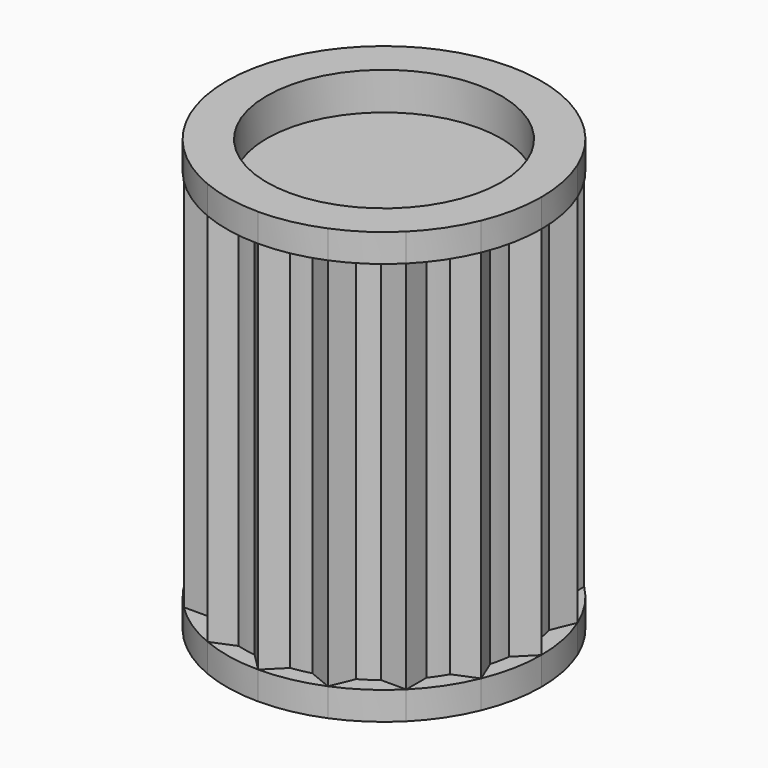
from build123d import *

# Parameters (mm, degrees)
F1_DEPTH = 40
F3_DEPTH = 3
F5_DEPTH = 3
F6_R     = 12.5
F7_DEPTH = 4


with BuildPart() as f1:
    # F0 (on Top) → F1 (new body)
    with BuildSketch(Plane.XY):
        with BuildLine():
            Line((-8.329602144, 11.86513605), (-9.1770663349, 11.86513605))
            ThreePointArc((-9.1770663349, 11.86513605), (-10.6066017178, 10.6066017178), (-11.86513605, 9.1770663349))
            Line((-11.86513605, 9.1770663349), (-11.86513605, 8.329602144))
            Line((-11.86513605, 8.329602144), (-10.097369097, 10.097369097))
            Line((-10.097369097, 10.097369097), (-8.329602144, 11.86513605))
        make_face()
        with BuildLine():
            Line((-3.1549579458, 14.1495570857), (-3.9379127663, 14.4738675911))
            ThreePointArc((-3.9379127663, 14.4738675911), (-5.7402514855, 13.8581929877), (-7.4500451029, 13.0190947444))
            Line((-7.4500451029, 13.0190947444), (-7.7743556083, 12.2361399239))
            Line((-7.7743556083, 12.2361399239), (-5.464656777, 13.1928485048))
            Line((-5.464656777, 13.1928485048), (-3.1549579458, 14.1495570857))
        make_face()
        with BuildLine():
            Line((2.5, 14.2798363213), (1.9007523238, 14.8790839975))
            ThreePointArc((1.9007523238, 14.8790839975), (0, 15), (-1.9007523238, 14.8790839975))
            Line((-1.9007523238, 14.8790839975), (-2.5, 14.2798363213))
            Line((-2.5, 14.2798363213), (0, 14.2798363213))
            Line((0, 14.2798363213), (2.5, 14.2798363213))
        make_face()
        with BuildLine():
            Line((7.7743556083, 12.2361399239), (7.4500451029, 13.0190947444))
            ThreePointArc((7.4500451029, 13.0190947444), (5.7402514855, 13.8581929877), (3.9379127663, 14.4738675911))
            Line((3.9379127663, 14.4738675911), (3.1549579458, 14.1495570857))
            Line((3.1549579458, 14.1495570857), (5.464656777, 13.1928485048))
            Line((5.464656777, 13.1928485048), (7.7743556083, 12.2361399239))
        make_face()
        with BuildLine():
            Line((11.86513605, 8.329602144), (11.86513605, 9.1770663349))
            ThreePointArc((11.86513605, 9.1770663349), (10.6066017178, 10.6066017178), (9.1770663349, 11.86513605))
            Line((9.1770663349, 11.86513605), (8.329602144, 11.86513605))
            Line((8.329602144, 11.86513605), (10.097369097, 10.097369097))
            Line((10.097369097, 10.097369097), (11.86513605, 8.329602144))
        make_face()
        with BuildLine():
            ThreePointArc((14.8790839975, -1.9007523238), (14.9697404781, -0.9522972325), (15, 0))
            ThreePointArc((15, 0), (14.9697404781, 0.9522972325), (14.8790839975, 1.9007523238))
            Line((14.8790839975, 1.9007523238), (14.2798363213, 2.5))
            Line((14.2798363213, 2.5), (14.2798363213, 0))
            Line((14.2798363213, 0), (14.2798363213, -2.5))
            Line((14.2798363213, -2.5), (14.8790839975, -1.9007523238))
        make_face()
        with BuildLine():
            ThreePointArc((13.0190947444, -7.4500451029), (13.8581929877, -5.7402514855), (14.4738675911, -3.9379127663))
            Line((14.4738675911, -3.9379127663), (14.1495570857, -3.1549579458))
            Line((14.1495570857, -3.1549579458), (13.1928485048, -5.464656777))
            Line((13.1928485048, -5.464656777), (12.2361399239, -7.7743556083))
            Line((12.2361399239, -7.7743556083), (13.0190947444, -7.4500451029))
        make_face()
        with BuildLine():
            ThreePointArc((9.1770663349, -11.86513605), (10.6066017178, -10.6066017178), (11.86513605, -9.1770663349))
            Line((11.86513605, -9.1770663349), (11.86513605, -8.329602144))
            Line((11.86513605, -8.329602144), (10.097369097, -10.097369097))
            Line((10.097369097, -10.097369097), (8.329602144, -11.86513605))
            Line((8.329602144, -11.86513605), (9.1770663349, -11.86513605))
        make_face()
        with BuildLine():
            ThreePointArc((3.9379127663, -14.4738675911), (5.7402514855, -13.8581929877), (7.4500451029, -13.0190947444))
            Line((7.4500451029, -13.0190947444), (7.7743556083, -12.2361399239))
            Line((7.7743556083, -12.2361399239), (5.464656777, -13.1928485048))
            Line((5.464656777, -13.1928485048), (3.1549579458, -14.1495570857))
            Line((3.1549579458, -14.1495570857), (3.9379127663, -14.4738675911))
        make_face()
        with BuildLine():
            ThreePointArc((-1.9007523238, -14.8790839975), (0, -15), (1.9007523238, -14.8790839975))
            Line((1.9007523238, -14.8790839975), (2.5, -14.2798363213))
            Line((2.5, -14.2798363213), (0, -14.2798363213))
            Line((0, -14.2798363213), (-2.5, -14.2798363213))
            Line((-2.5, -14.2798363213), (-1.9007523238, -14.8790839975))
        make_face()
        with BuildLine():
            ThreePointArc((-7.4500451029, -13.0190947444), (-5.7402514855, -13.8581929877), (-3.9379127663, -14.4738675911))
            Line((-3.9379127663, -14.4738675911), (-3.1549579458, -14.1495570857))
            Line((-3.1549579458, -14.1495570857), (-5.464656777, -13.1928485048))
            Line((-5.464656777, -13.1928485048), (-7.7743556083, -12.2361399239))
            Line((-7.7743556083, -12.2361399239), (-7.4500451029, -13.0190947444))
        make_face()
        with BuildLine():
            ThreePointArc((-11.86513605, -9.1770663349), (-10.6066017178, -10.6066017178), (-9.1770663349, -11.86513605))
            Line((-9.1770663349, -11.86513605), (-8.329602144, -11.86513605))
            Line((-8.329602144, -11.86513605), (-10.097369097, -10.097369097))
            Line((-10.097369097, -10.097369097), (-11.86513605, -8.329602144))
            Line((-11.86513605, -8.329602144), (-11.86513605, -9.1770663349))
        make_face()
        with BuildLine():
            ThreePointArc((-14.4738675911, -3.9379127663), (-13.8581929877, -5.7402514855), (-13.0190947444, -7.4500451029))
            Line((-13.0190947444, -7.4500451029), (-12.2361399239, -7.7743556083))
            Line((-12.2361399239, -7.7743556083), (-13.1928485048, -5.464656777))
            Line((-13.1928485048, -5.464656777), (-14.1495570857, -3.1549579458))
            Line((-14.1495570857, -3.1549579458), (-14.4738675911, -3.9379127663))
        make_face()
        with BuildLine():
            Line((-14.2798363213, 2.5), (-14.8790839975, 1.9007523238))
            ThreePointArc((-14.8790839975, 1.9007523238), (-15, 0), (-14.8790839975, -1.9007523238))
            Line((-14.8790839975, -1.9007523238), (-14.2798363213, -2.5))
            Line((-14.2798363213, -2.5), (-14.2798363213, 0))
            Line((-14.2798363213, 0), (-14.2798363213, 2.5))
        make_face()
        with BuildLine():
            Line((-12.2361399239, 7.7743556083), (-13.0190947444, 7.4500451029))
            ThreePointArc((-13.0190947444, 7.4500451029), (-13.8581929877, 5.7402514855), (-14.4738675911, 3.9379127663))
            Line((-14.4738675911, 3.9379127663), (-14.1495570857, 3.1549579458))
            Line((-14.1495570857, 3.1549579458), (-13.1928485048, 5.464656777))
            Line((-13.1928485048, 5.464656777), (-12.2361399239, 7.7743556083))
        make_face()
        with BuildLine():
            Line((14.2798363213, 2.5), (14.8790839975, 1.9007523238))
            ThreePointArc((14.8790839975, 1.9007523238), (14.711779206, 2.9263548302), (14.4738675911, 3.9379127663))
            Line((14.4738675911, 3.9379127663), (14.1495570857, 3.1549579458))
            Line((14.1495570857, 3.1549579458), (13.1928485048, 5.464656777))
            Line((13.1928485048, 5.464656777), (12.2361399239, 7.7743556083))
            Line((12.2361399239, 7.7743556083), (13.0190947444, 7.4500451029))
            ThreePointArc((13.0190947444, 7.4500451029), (12.4720441845, 8.3335534953), (11.86513605, 9.1770663349))
            Line((11.86513605, 9.1770663349), (11.86513605, 8.329602144))
            Line((11.86513605, 8.329602144), (10.097369097, 10.097369097))
            Line((10.097369097, 10.097369097), (8.329602144, 11.86513605))
            Line((8.329602144, 11.86513605), (9.1770663349, 11.86513605))
            ThreePointArc((9.1770663349, 11.86513605), (8.3335534953, 12.4720441845), (7.4500451029, 13.0190947444))
            Line((7.4500451029, 13.0190947444), (7.7743556083, 12.2361399239))
            Line((7.7743556083, 12.2361399239), (5.464656777, 13.1928485048))
            Line((5.464656777, 13.1928485048), (3.1549579458, 14.1495570857))
            Line((3.1549579458, 14.1495570857), (3.9379127663, 14.4738675911))
            ThreePointArc((3.9379127663, 14.4738675911), (2.9263548302, 14.711779206), (1.9007523238, 14.8790839975))
            Line((1.9007523238, 14.8790839975), (2.5, 14.2798363213))
            Line((2.5, 14.2798363213), (0, 14.2798363213))
            Line((0, 14.2798363213), (-2.5, 14.2798363213))
            Line((-2.5, 14.2798363213), (-1.9007523238, 14.8790839975))
            ThreePointArc((-1.9007523238, 14.8790839975), (-2.9263548302, 14.711779206), (-3.9379127663, 14.4738675911))
            Line((-3.9379127663, 14.4738675911), (-3.1549579458, 14.1495570857))
            Line((-3.1549579458, 14.1495570857), (-5.464656777, 13.1928485048))
            Line((-5.464656777, 13.1928485048), (-7.7743556083, 12.2361399239))
            Line((-7.7743556083, 12.2361399239), (-7.4500451029, 13.0190947444))
            ThreePointArc((-7.4500451029, 13.0190947444), (-8.3335534953, 12.4720441845), (-9.1770663349, 11.86513605))
            Line((-9.1770663349, 11.86513605), (-8.329602144, 11.86513605))
            Line((-8.329602144, 11.86513605), (-10.097369097, 10.097369097))
            Line((-10.097369097, 10.097369097), (-11.86513605, 8.329602144))
            Line((-11.86513605, 8.329602144), (-11.86513605, 9.1770663349))
            ThreePointArc((-11.86513605, 9.1770663349), (-12.4720441845, 8.3335534953), (-13.0190947444, 7.4500451029))
            Line((-13.0190947444, 7.4500451029), (-12.2361399239, 7.7743556083))
            Line((-12.2361399239, 7.7743556083), (-13.1928485048, 5.464656777))
            Line((-13.1928485048, 5.464656777), (-14.1495570857, 3.1549579458))
            Line((-14.1495570857, 3.1549579458), (-14.4738675911, 3.9379127663))
            ThreePointArc((-14.4738675911, 3.9379127663), (-14.711779206, 2.9263548302), (-14.8790839975, 1.9007523238))
            Line((-14.8790839975, 1.9007523238), (-14.2798363213, 2.5))
            Line((-14.2798363213, 2.5), (-14.2798363213, 0))
            Line((-14.2798363213, 0), (-14.2798363213, -2.5))
            Line((-14.2798363213, -2.5), (-14.8790839975, -1.9007523238))
            ThreePointArc((-14.8790839975, -1.9007523238), (-14.711779206, -2.9263548302), (-14.4738675911, -3.9379127663))
            Line((-14.4738675911, -3.9379127663), (-14.1495570857, -3.1549579458))
            Line((-14.1495570857, -3.1549579458), (-13.1928485048, -5.464656777))
            Line((-13.1928485048, -5.464656777), (-12.2361399239, -7.7743556083))
            Line((-12.2361399239, -7.7743556083), (-13.0190947444, -7.4500451029))
            ThreePointArc((-13.0190947444, -7.4500451029), (-12.4720441845, -8.3335534953), (-11.86513605, -9.1770663349))
            Line((-11.86513605, -9.1770663349), (-11.86513605, -8.329602144))
            Line((-11.86513605, -8.329602144), (-10.097369097, -10.097369097))
            Line((-10.097369097, -10.097369097), (-8.329602144, -11.86513605))
            Line((-8.329602144, -11.86513605), (-9.1770663349, -11.86513605))
            ThreePointArc((-9.1770663349, -11.86513605), (-8.3335534953, -12.4720441845), (-7.4500451029, -13.0190947444))
            Line((-7.4500451029, -13.0190947444), (-7.7743556083, -12.2361399239))
            Line((-7.7743556083, -12.2361399239), (-5.464656777, -13.1928485048))
            Line((-5.464656777, -13.1928485048), (-3.1549579458, -14.1495570857))
            Line((-3.1549579458, -14.1495570857), (-3.9379127663, -14.4738675911))
            ThreePointArc((-3.9379127663, -14.4738675911), (-2.9263548302, -14.711779206), (-1.9007523238, -14.8790839975))
            Line((-1.9007523238, -14.8790839975), (-2.5, -14.2798363213))
            Line((-2.5, -14.2798363213), (0, -14.2798363213))
            Line((0, -14.2798363213), (2.5, -14.2798363213))
            Line((2.5, -14.2798363213), (1.9007523238, -14.8790839975))
            ThreePointArc((1.9007523238, -14.8790839975), (2.9263548302, -14.711779206), (3.9379127663, -14.4738675911))
            Line((3.9379127663, -14.4738675911), (3.1549579458, -14.1495570857))
            Line((3.1549579458, -14.1495570857), (5.464656777, -13.1928485048))
            Line((5.464656777, -13.1928485048), (7.7743556083, -12.2361399239))
            Line((7.7743556083, -12.2361399239), (7.4500451029, -13.0190947444))
            ThreePointArc((7.4500451029, -13.0190947444), (8.3335534953, -12.4720441845), (9.1770663349, -11.86513605))
            Line((9.1770663349, -11.86513605), (8.329602144, -11.86513605))
            Line((8.329602144, -11.86513605), (10.097369097, -10.097369097))
            Line((10.097369097, -10.097369097), (11.86513605, -8.329602144))
            Line((11.86513605, -8.329602144), (11.86513605, -9.1770663349))
            ThreePointArc((11.86513605, -9.1770663349), (12.4720441845, -8.3335534953), (13.0190947444, -7.4500451029))
            Line((13.0190947444, -7.4500451029), (12.2361399239, -7.7743556083))
            Line((12.2361399239, -7.7743556083), (13.1928485048, -5.464656777))
            Line((13.1928485048, -5.464656777), (14.1495570857, -3.1549579458))
            Line((14.1495570857, -3.1549579458), (14.4738675911, -3.9379127663))
            ThreePointArc((14.4738675911, -3.9379127663), (14.711779206, -2.9263548302), (14.8790839975, -1.9007523238))
            Line((14.8790839975, -1.9007523238), (14.2798363213, -2.5))
            Line((14.2798363213, -2.5), (14.2798363213, 0))
            Line((14.2798363213, 0), (14.2798363213, 2.5))
        make_face()
        with BuildLine():
            Line((14.1495570857, 3.1549579458), (14.4738675911, 3.9379127663))
            ThreePointArc((14.4738675911, 3.9379127663), (13.8581929877, 5.7402514855), (13.0190947444, 7.4500451029))
            Line((13.0190947444, 7.4500451029), (12.2361399239, 7.7743556083))
            Line((12.2361399239, 7.7743556083), (13.1928485048, 5.464656777))
            Line((13.1928485048, 5.464656777), (14.1495570857, 3.1549579458))
        make_face()
        with BuildLine():
            Line((6.4213653579, -15.5025473361), (7.4500451029, -13.0190947444))
            ThreePointArc((7.4500451029, -13.0190947444), (5.7402514855, -13.8581929877), (3.9379127663, -14.4738675911))
            Line((3.9379127663, -14.4738675911), (6.4213653579, -15.5025473361))
        make_face()
        with BuildLine():
            Line((11.86513605, -11.86513605), (11.86513605, -9.1770663349))
            ThreePointArc((11.86513605, -9.1770663349), (10.6066017178, -10.6066017178), (9.1770663349, -11.86513605))
            Line((9.1770663349, -11.86513605), (11.86513605, -11.86513605))
        make_face()
        with BuildLine():
            Line((0, -16.7798363213), (1.9007523238, -14.8790839975))
            ThreePointArc((1.9007523238, -14.8790839975), (0, -15), (-1.9007523238, -14.8790839975))
            Line((-1.9007523238, -14.8790839975), (0, -16.7798363213))
        make_face()
        with BuildLine():
            Line((-6.4213653579, -15.5025473361), (-3.9379127663, -14.4738675911))
            ThreePointArc((-3.9379127663, -14.4738675911), (-5.7402514855, -13.8581929877), (-7.4500451029, -13.0190947444))
            Line((-7.4500451029, -13.0190947444), (-6.4213653579, -15.5025473361))
        make_face()
        with BuildLine():
            Line((-11.86513605, -11.86513605), (-9.1770663349, -11.86513605))
            ThreePointArc((-9.1770663349, -11.86513605), (-10.6066017178, -10.6066017178), (-11.86513605, -9.1770663349))
            Line((-11.86513605, -9.1770663349), (-11.86513605, -11.86513605))
        make_face()
        with BuildLine():
            Line((-15.5025473361, -6.4213653579), (-13.0190947444, -7.4500451029))
            ThreePointArc((-13.0190947444, -7.4500451029), (-13.8581929877, -5.7402514855), (-14.4738675911, -3.9379127663))
            Line((-14.4738675911, -3.9379127663), (-15.5025473361, -6.4213653579))
        make_face()
        with BuildLine():
            ThreePointArc((-14.8790839975, -1.9007523238), (-15, 0), (-14.8790839975, 1.9007523238))
            Line((-14.8790839975, 1.9007523238), (-16.7798363213, 0))
            Line((-16.7798363213, 0), (-14.8790839975, -1.9007523238))
        make_face()
        with BuildLine():
            ThreePointArc((-14.4738675911, 3.9379127663), (-13.8581929877, 5.7402514855), (-13.0190947444, 7.4500451029))
            Line((-13.0190947444, 7.4500451029), (-15.5025473361, 6.4213653579))
            Line((-15.5025473361, 6.4213653579), (-14.4738675911, 3.9379127663))
        make_face()
        with BuildLine():
            ThreePointArc((-11.86513605, 9.1770663349), (-10.6066017178, 10.6066017178), (-9.1770663349, 11.86513605))
            Line((-9.1770663349, 11.86513605), (-11.86513605, 11.86513605))
            Line((-11.86513605, 11.86513605), (-11.86513605, 9.1770663349))
        make_face()
        with BuildLine():
            ThreePointArc((-7.4500451029, 13.0190947444), (-5.7402514855, 13.8581929877), (-3.9379127663, 14.4738675911))
            Line((-3.9379127663, 14.4738675911), (-6.4213653579, 15.5025473361))
            Line((-6.4213653579, 15.5025473361), (-7.4500451029, 13.0190947444))
        make_face()
        with BuildLine():
            ThreePointArc((-1.9007523238, 14.8790839975), (0, 15), (1.9007523238, 14.8790839975))
            Line((1.9007523238, 14.8790839975), (0, 16.7798363213))
            Line((0, 16.7798363213), (-1.9007523238, 14.8790839975))
        make_face()
        with BuildLine():
            ThreePointArc((3.9379127663, 14.4738675911), (5.7402514855, 13.8581929877), (7.4500451029, 13.0190947444))
            Line((7.4500451029, 13.0190947444), (6.4213653579, 15.5025473361))
            Line((6.4213653579, 15.5025473361), (3.9379127663, 14.4738675911))
        make_face()
        with BuildLine():
            ThreePointArc((9.1770663349, 11.86513605), (10.6066017178, 10.6066017178), (11.86513605, 9.1770663349))
            Line((11.86513605, 9.1770663349), (11.86513605, 11.86513605))
            Line((11.86513605, 11.86513605), (9.1770663349, 11.86513605))
        make_face()
        with BuildLine():
            ThreePointArc((13.0190947444, 7.4500451029), (13.8581929877, 5.7402514855), (14.4738675911, 3.9379127663))
            Line((14.4738675911, 3.9379127663), (15.5025473361, 6.4213653579))
            Line((15.5025473361, 6.4213653579), (13.0190947444, 7.4500451029))
        make_face()
        with BuildLine():
            ThreePointArc((14.8790839975, 1.9007523238), (14.9697404781, 0.9522972325), (15, 0))
            ThreePointArc((15, 0), (14.9697404781, -0.9522972325), (14.8790839975, -1.9007523238))
            Line((14.8790839975, -1.9007523238), (16.7798363213, 0))
            Line((16.7798363213, 0), (14.8790839975, 1.9007523238))
        make_face()
        with BuildLine():
            Line((15.5025473361, -6.4213653579), (14.4738675911, -3.9379127663))
            ThreePointArc((14.4738675911, -3.9379127663), (13.8581929877, -5.7402514855), (13.0190947444, -7.4500451029))
            Line((13.0190947444, -7.4500451029), (15.5025473361, -6.4213653579))
        make_face()
    extrude(amount=F1_DEPTH)

    # F2 (on face) → F3 (join)
    with BuildSketch(Plane.XY.offset(40)):
        with BuildLine():
            Line((14.8790839975, -1.9007523238), (16.7798363213, 0))
            Line((16.7798363213, 0), (14.8790839975, 1.9007523238))
            ThreePointArc((14.8790839975, 1.9007523238), (14.711779206, 2.9263548302), (14.4738675911, 3.9379127663))
            Line((14.4738675911, 3.9379127663), (15.5025473361, 6.4213653579))
            Line((15.5025473361, 6.4213653579), (13.0190947444, 7.4500451029))
            ThreePointArc((13.0190947444, 7.4500451029), (12.4720441845, 8.3335534953), (11.86513605, 9.1770663349))
            Line((11.86513605, 9.1770663349), (11.86513605, 11.86513605))
            Line((11.86513605, 11.86513605), (9.1770663349, 11.86513605))
            ThreePointArc((9.1770663349, 11.86513605), (8.3335534953, 12.4720441845), (7.4500451029, 13.0190947444))
            Line((7.4500451029, 13.0190947444), (6.4213653579, 15.5025473361))
            Line((6.4213653579, 15.5025473361), (3.9379127663, 14.4738675911))
            ThreePointArc((3.9379127663, 14.4738675911), (2.9263548302, 14.711779206), (1.9007523238, 14.8790839975))
            Line((1.9007523238, 14.8790839975), (0, 16.7798363213))
            Line((0, 16.7798363213), (-1.9007523238, 14.8790839975))
            ThreePointArc((-1.9007523238, 14.8790839975), (-2.9263548302, 14.711779206), (-3.9379127663, 14.4738675911))
            Line((-3.9379127663, 14.4738675911), (-6.4213653579, 15.5025473361))
            Line((-6.4213653579, 15.5025473361), (-7.4500451029, 13.0190947444))
            ThreePointArc((-7.4500451029, 13.0190947444), (-8.3335534953, 12.4720441845), (-9.1770663349, 11.86513605))
            Line((-9.1770663349, 11.86513605), (-11.86513605, 11.86513605))
            Line((-11.86513605, 11.86513605), (-11.86513605, 9.1770663349))
            ThreePointArc((-11.86513605, 9.1770663349), (-12.4720441845, 8.3335534953), (-13.0190947444, 7.4500451029))
            Line((-13.0190947444, 7.4500451029), (-15.5025473361, 6.4213653579))
            Line((-15.5025473361, 6.4213653579), (-14.4738675911, 3.9379127663))
            ThreePointArc((-14.4738675911, 3.9379127663), (-14.711779206, 2.9263548302), (-14.8790839975, 1.9007523238))
            Line((-14.8790839975, 1.9007523238), (-16.7798363213, 0))
            Line((-16.7798363213, 0), (-14.8790839975, -1.9007523238))
            ThreePointArc((-14.8790839975, -1.9007523238), (-14.711779206, -2.9263548302), (-14.4738675911, -3.9379127663))
            Line((-14.4738675911, -3.9379127663), (-15.5025473361, -6.4213653579))
            Line((-15.5025473361, -6.4213653579), (-13.0190947444, -7.4500451029))
            ThreePointArc((-13.0190947444, -7.4500451029), (-12.4720441845, -8.3335534953), (-11.86513605, -9.1770663349))
            Line((-11.86513605, -9.1770663349), (-11.86513605, -11.86513605))
            Line((-11.86513605, -11.86513605), (-9.1770663349, -11.86513605))
            ThreePointArc((-9.1770663349, -11.86513605), (-8.3335534953, -12.4720441845), (-7.4500451029, -13.0190947444))
            Line((-7.4500451029, -13.0190947444), (-6.4213653579, -15.5025473361))
            Line((-6.4213653579, -15.5025473361), (-3.9379127663, -14.4738675911))
            ThreePointArc((-3.9379127663, -14.4738675911), (-2.9263548302, -14.711779206), (-1.9007523238, -14.8790839975))
            Line((-1.9007523238, -14.8790839975), (0, -16.7798363213))
            Line((0, -16.7798363213), (1.9007523238, -14.8790839975))
            ThreePointArc((1.9007523238, -14.8790839975), (2.9263548302, -14.711779206), (3.9379127663, -14.4738675911))
            Line((3.9379127663, -14.4738675911), (6.4213653579, -15.5025473361))
            Line((6.4213653579, -15.5025473361), (7.4500451029, -13.0190947444))
            ThreePointArc((7.4500451029, -13.0190947444), (8.3335534953, -12.4720441845), (9.1770663349, -11.86513605))
            Line((9.1770663349, -11.86513605), (11.86513605, -11.86513605))
            Line((11.86513605, -11.86513605), (11.86513605, -9.1770663349))
            ThreePointArc((11.86513605, -9.1770663349), (12.4720441845, -8.3335534953), (13.0190947444, -7.4500451029))
            Line((13.0190947444, -7.4500451029), (15.5025473361, -6.4213653579))
            Line((15.5025473361, -6.4213653579), (14.4738675911, -3.9379127663))
            ThreePointArc((14.4738675911, -3.9379127663), (14.711779206, -2.9263548302), (14.8790839975, -1.9007523238))
        make_face()
        with BuildLine():
            ThreePointArc((-11.86513605, -11.86513605), (-9.322377575, -13.9519240005), (-6.4213653579, -15.5025473361))
            Line((-6.4213653579, -15.5025473361), (-7.4500451029, -13.0190947444))
            ThreePointArc((-7.4500451029, -13.0190947444), (-8.3335534953, -12.4720441845), (-9.1770663349, -11.86513605))
            Line((-9.1770663349, -11.86513605), (-11.86513605, -11.86513605))
        make_face()
        with BuildLine():
            ThreePointArc((-6.4213653579, -15.5025473361), (-3.2735836713, -16.4574164715), (0, -16.7798363213))
            Line((0, -16.7798363213), (-1.9007523238, -14.8790839975))
            ThreePointArc((-1.9007523238, -14.8790839975), (-2.9263548302, -14.711779206), (-3.9379127663, -14.4738675911))
            Line((-3.9379127663, -14.4738675911), (-6.4213653579, -15.5025473361))
        make_face()
        with BuildLine():
            ThreePointArc((0, -16.7798363213), (3.2735836713, -16.4574164715), (6.4213653579, -15.5025473361))
            Line((6.4213653579, -15.5025473361), (3.9379127663, -14.4738675911))
            ThreePointArc((3.9379127663, -14.4738675911), (2.9263548302, -14.711779206), (1.9007523238, -14.8790839975))
            Line((1.9007523238, -14.8790839975), (0, -16.7798363213))
        make_face()
        with BuildLine():
            ThreePointArc((6.4213653579, -15.5025473361), (9.322377575, -13.9519240005), (11.86513605, -11.86513605))
            Line((11.86513605, -11.86513605), (9.1770663349, -11.86513605))
            ThreePointArc((9.1770663349, -11.86513605), (8.3335534953, -12.4720441845), (7.4500451029, -13.0190947444))
            Line((7.4500451029, -13.0190947444), (6.4213653579, -15.5025473361))
        make_face()
        with BuildLine():
            ThreePointArc((11.86513605, -11.86513605), (13.9519240005, -9.322377575), (15.5025473361, -6.4213653579))
            Line((15.5025473361, -6.4213653579), (13.0190947444, -7.4500451029))
            ThreePointArc((13.0190947444, -7.4500451029), (12.4720441845, -8.3335534953), (11.86513605, -9.1770663349))
            Line((11.86513605, -9.1770663349), (11.86513605, -11.86513605))
        make_face()
        with BuildLine():
            ThreePointArc((15.5025473361, -6.4213653579), (16.4574164715, -3.2735836713), (16.7798363213, 0))
            Line((16.7798363213, 0), (14.8790839975, -1.9007523238))
            ThreePointArc((14.8790839975, -1.9007523238), (14.711779206, -2.9263548302), (14.4738675911, -3.9379127663))
            Line((14.4738675911, -3.9379127663), (15.5025473361, -6.4213653579))
        make_face()
        with BuildLine():
            Line((14.8790839975, 1.9007523238), (16.7798363213, 0))
            ThreePointArc((16.7798363213, 0), (16.4574164715, 3.2735836713), (15.5025473361, 6.4213653579))
            Line((15.5025473361, 6.4213653579), (14.4738675911, 3.9379127663))
            ThreePointArc((14.4738675911, 3.9379127663), (14.711779206, 2.9263548302), (14.8790839975, 1.9007523238))
        make_face()
        with BuildLine():
            Line((13.0190947444, 7.4500451029), (15.5025473361, 6.4213653579))
            ThreePointArc((15.5025473361, 6.4213653579), (13.9519240005, 9.322377575), (11.86513605, 11.86513605))
            Line((11.86513605, 11.86513605), (11.86513605, 9.1770663349))
            ThreePointArc((11.86513605, 9.1770663349), (12.4720441845, 8.3335534953), (13.0190947444, 7.4500451029))
        make_face()
        with BuildLine():
            Line((9.1770663349, 11.86513605), (11.86513605, 11.86513605))
            ThreePointArc((11.86513605, 11.86513605), (9.322377575, 13.9519240005), (6.4213653579, 15.5025473361))
            Line((6.4213653579, 15.5025473361), (7.4500451029, 13.0190947444))
            ThreePointArc((7.4500451029, 13.0190947444), (8.3335534953, 12.4720441845), (9.1770663349, 11.86513605))
        make_face()
        with BuildLine():
            ThreePointArc((-15.5025473361, -6.4213653579), (-13.9519240005, -9.322377575), (-11.86513605, -11.86513605))
            Line((-11.86513605, -11.86513605), (-11.86513605, -9.1770663349))
            ThreePointArc((-11.86513605, -9.1770663349), (-12.4720441845, -8.3335534953), (-13.0190947444, -7.4500451029))
            Line((-13.0190947444, -7.4500451029), (-15.5025473361, -6.4213653579))
        make_face()
        with BuildLine():
            ThreePointArc((-16.7798363213, 0), (-16.4574164715, -3.2735836713), (-15.5025473361, -6.4213653579))
            Line((-15.5025473361, -6.4213653579), (-14.4738675911, -3.9379127663))
            ThreePointArc((-14.4738675911, -3.9379127663), (-14.711779206, -2.9263548302), (-14.8790839975, -1.9007523238))
            Line((-14.8790839975, -1.9007523238), (-16.7798363213, 0))
        make_face()
        with BuildLine():
            Line((-14.4738675911, 3.9379127663), (-15.5025473361, 6.4213653579))
            ThreePointArc((-15.5025473361, 6.4213653579), (-16.4574164715, 3.2735836713), (-16.7798363213, 0))
            Line((-16.7798363213, 0), (-14.8790839975, 1.9007523238))
            ThreePointArc((-14.8790839975, 1.9007523238), (-14.711779206, 2.9263548302), (-14.4738675911, 3.9379127663))
        make_face()
        with BuildLine():
            Line((-11.86513605, 9.1770663349), (-11.86513605, 11.86513605))
            ThreePointArc((-11.86513605, 11.86513605), (-13.9519240005, 9.322377575), (-15.5025473361, 6.4213653579))
            Line((-15.5025473361, 6.4213653579), (-13.0190947444, 7.4500451029))
            ThreePointArc((-13.0190947444, 7.4500451029), (-12.4720441845, 8.3335534953), (-11.86513605, 9.1770663349))
        make_face()
        with BuildLine():
            Line((-7.4500451029, 13.0190947444), (-6.4213653579, 15.5025473361))
            ThreePointArc((-6.4213653579, 15.5025473361), (-9.322377575, 13.9519240005), (-11.86513605, 11.86513605))
            Line((-11.86513605, 11.86513605), (-9.1770663349, 11.86513605))
            ThreePointArc((-9.1770663349, 11.86513605), (-8.3335534953, 12.4720441845), (-7.4500451029, 13.0190947444))
        make_face()
        with BuildLine():
            Line((-1.9007523238, 14.8790839975), (0, 16.7798363213))
            ThreePointArc((0, 16.7798363213), (-3.2735836713, 16.4574164715), (-6.4213653579, 15.5025473361))
            Line((-6.4213653579, 15.5025473361), (-3.9379127663, 14.4738675911))
            ThreePointArc((-3.9379127663, 14.4738675911), (-2.9263548302, 14.711779206), (-1.9007523238, 14.8790839975))
        make_face()
        with BuildLine():
            Line((3.9379127663, 14.4738675911), (6.4213653579, 15.5025473361))
            ThreePointArc((6.4213653579, 15.5025473361), (3.2735836713, 16.4574164715), (0, 16.7798363213))
            Line((0, 16.7798363213), (1.9007523238, 14.8790839975))
            ThreePointArc((1.9007523238, 14.8790839975), (2.9263548302, 14.711779206), (3.9379127663, 14.4738675911))
        make_face()
    extrude(amount=F3_DEPTH)

    # F4 (on face) → F5 (join)
    with BuildSketch(Plane(origin=(0, 0, 0), x_dir=(1, 0, 0), z_dir=(0, 0, -1))):
        with BuildLine():
            Line((3.9379127663, 14.4738675911), (6.4213653579, 15.5025473361))
            ThreePointArc((6.4213653579, 15.5025473361), (3.2735836713, 16.4574164715), (0, 16.7798363213))
            Line((0, 16.7798363213), (1.9007523238, 14.8790839975))
            ThreePointArc((1.9007523238, 14.8790839975), (2.9263548302, 14.711779206), (3.9379127663, 14.4738675911))
        make_face()
        with BuildLine():
            Line((-1.9007523238, 14.8790839975), (0, 16.7798363213))
            ThreePointArc((0, 16.7798363213), (-3.2735836713, 16.4574164715), (-6.4213653579, 15.5025473361))
            Line((-6.4213653579, 15.5025473361), (-3.9379127663, 14.4738675911))
            ThreePointArc((-3.9379127663, 14.4738675911), (-2.9263548302, 14.711779206), (-1.9007523238, 14.8790839975))
        make_face()
        with BuildLine():
            Line((-7.4500451029, 13.0190947444), (-6.4213653579, 15.5025473361))
            ThreePointArc((-6.4213653579, 15.5025473361), (-9.322377575, 13.9519240005), (-11.86513605, 11.86513605))
            Line((-11.86513605, 11.86513605), (-9.1770663349, 11.86513605))
            ThreePointArc((-9.1770663349, 11.86513605), (-8.3335534953, 12.4720441845), (-7.4500451029, 13.0190947444))
        make_face()
        with BuildLine():
            Line((-11.86513605, 9.1770663349), (-11.86513605, 11.86513605))
            ThreePointArc((-11.86513605, 11.86513605), (-13.9519240005, 9.322377575), (-15.5025473361, 6.4213653579))
            Line((-15.5025473361, 6.4213653579), (-13.0190947444, 7.4500451029))
            ThreePointArc((-13.0190947444, 7.4500451029), (-12.4720441845, 8.3335534953), (-11.86513605, 9.1770663349))
        make_face()
        with BuildLine():
            Line((-14.4738675911, 3.9379127663), (-15.5025473361, 6.4213653579))
            ThreePointArc((-15.5025473361, 6.4213653579), (-16.4574164715, 3.2735836713), (-16.7798363213, 0))
            Line((-16.7798363213, 0), (-14.8790839975, 1.9007523238))
            ThreePointArc((-14.8790839975, 1.9007523238), (-14.711779206, 2.9263548302), (-14.4738675911, 3.9379127663))
        make_face()
        with BuildLine():
            ThreePointArc((-16.7798363213, 0), (-16.4574164715, -3.2735836713), (-15.5025473361, -6.4213653579))
            Line((-15.5025473361, -6.4213653579), (-14.4738675911, -3.9379127663))
            ThreePointArc((-14.4738675911, -3.9379127663), (-14.711779206, -2.9263548302), (-14.8790839975, -1.9007523238))
            Line((-14.8790839975, -1.9007523238), (-16.7798363213, 0))
        make_face()
        with BuildLine():
            ThreePointArc((-15.5025473361, -6.4213653579), (-13.9519240005, -9.322377575), (-11.86513605, -11.86513605))
            Line((-11.86513605, -11.86513605), (-11.86513605, -9.1770663349))
            ThreePointArc((-11.86513605, -9.1770663349), (-12.4720441845, -8.3335534953), (-13.0190947444, -7.4500451029))
            Line((-13.0190947444, -7.4500451029), (-15.5025473361, -6.4213653579))
        make_face()
        with BuildLine():
            ThreePointArc((-11.86513605, -11.86513605), (-9.322377575, -13.9519240005), (-6.4213653579, -15.5025473361))
            Line((-6.4213653579, -15.5025473361), (-7.4500451029, -13.0190947444))
            ThreePointArc((-7.4500451029, -13.0190947444), (-8.3335534953, -12.4720441845), (-9.1770663349, -11.86513605))
            Line((-9.1770663349, -11.86513605), (-11.86513605, -11.86513605))
        make_face()
        with BuildLine():
            ThreePointArc((-6.4213653579, -15.5025473361), (-3.2735836713, -16.4574164715), (0, -16.7798363213))
            Line((0, -16.7798363213), (-1.9007523238, -14.8790839975))
            ThreePointArc((-1.9007523238, -14.8790839975), (-2.9263548302, -14.711779206), (-3.9379127663, -14.4738675911))
            Line((-3.9379127663, -14.4738675911), (-6.4213653579, -15.5025473361))
        make_face()
        with BuildLine():
            ThreePointArc((0, -16.7798363213), (3.2735836713, -16.4574164715), (6.4213653579, -15.5025473361))
            Line((6.4213653579, -15.5025473361), (3.9379127663, -14.4738675911))
            ThreePointArc((3.9379127663, -14.4738675911), (2.9263548302, -14.711779206), (1.9007523238, -14.8790839975))
            Line((1.9007523238, -14.8790839975), (0, -16.7798363213))
        make_face()
        with BuildLine():
            ThreePointArc((6.4213653579, -15.5025473361), (9.322377575, -13.9519240005), (11.86513605, -11.86513605))
            Line((11.86513605, -11.86513605), (9.1770663349, -11.86513605))
            ThreePointArc((9.1770663349, -11.86513605), (8.3335534953, -12.4720441845), (7.4500451029, -13.0190947444))
            Line((7.4500451029, -13.0190947444), (6.4213653579, -15.5025473361))
        make_face()
        with BuildLine():
            ThreePointArc((11.86513605, -11.86513605), (13.9519240005, -9.322377575), (15.5025473361, -6.4213653579))
            Line((15.5025473361, -6.4213653579), (13.0190947444, -7.4500451029))
            ThreePointArc((13.0190947444, -7.4500451029), (12.4720441845, -8.3335534953), (11.86513605, -9.1770663349))
            Line((11.86513605, -9.1770663349), (11.86513605, -11.86513605))
        make_face()
        with BuildLine():
            ThreePointArc((15.5025473361, -6.4213653579), (16.4574164715, -3.2735836713), (16.7798363213, 0))
            Line((16.7798363213, 0), (14.8790839975, -1.9007523238))
            ThreePointArc((14.8790839975, -1.9007523238), (14.711779206, -2.9263548302), (14.4738675911, -3.9379127663))
            Line((14.4738675911, -3.9379127663), (15.5025473361, -6.4213653579))
        make_face()
        with BuildLine():
            Line((14.8790839975, 1.9007523238), (16.7798363213, 0))
            ThreePointArc((16.7798363213, 0), (16.4574164715, 3.2735836713), (15.5025473361, 6.4213653579))
            Line((15.5025473361, 6.4213653579), (14.4738675911, 3.9379127663))
            ThreePointArc((14.4738675911, 3.9379127663), (14.711779206, 2.9263548302), (14.8790839975, 1.9007523238))
        make_face()
        with BuildLine():
            Line((13.0190947444, 7.4500451029), (15.5025473361, 6.4213653579))
            ThreePointArc((15.5025473361, 6.4213653579), (13.9519240005, 9.322377575), (11.86513605, 11.86513605))
            Line((11.86513605, 11.86513605), (11.86513605, 9.1770663349))
            ThreePointArc((11.86513605, 9.1770663349), (12.4720441845, 8.3335534953), (13.0190947444, 7.4500451029))
        make_face()
        with BuildLine():
            Line((9.1770663349, 11.86513605), (11.86513605, 11.86513605))
            ThreePointArc((11.86513605, 11.86513605), (9.322377575, 13.9519240005), (6.4213653579, 15.5025473361))
            Line((6.4213653579, 15.5025473361), (7.4500451029, 13.0190947444))
            ThreePointArc((7.4500451029, 13.0190947444), (8.3335534953, 12.4720441845), (9.1770663349, 11.86513605))
        make_face()
        with BuildLine():
            Line((14.8790839975, -1.9007523238), (16.7798363213, 0))
            Line((16.7798363213, 0), (14.8790839975, 1.9007523238))
            ThreePointArc((14.8790839975, 1.9007523238), (14.711779206, 2.9263548302), (14.4738675911, 3.9379127663))
            Line((14.4738675911, 3.9379127663), (15.5025473361, 6.4213653579))
            Line((15.5025473361, 6.4213653579), (13.0190947444, 7.4500451029))
            ThreePointArc((13.0190947444, 7.4500451029), (12.4720441845, 8.3335534953), (11.86513605, 9.1770663349))
            Line((11.86513605, 9.1770663349), (11.86513605, 11.86513605))
            Line((11.86513605, 11.86513605), (9.1770663349, 11.86513605))
            ThreePointArc((9.1770663349, 11.86513605), (8.3335534953, 12.4720441845), (7.4500451029, 13.0190947444))
            Line((7.4500451029, 13.0190947444), (6.4213653579, 15.5025473361))
            Line((6.4213653579, 15.5025473361), (3.9379127663, 14.4738675911))
            ThreePointArc((3.9379127663, 14.4738675911), (2.9263548302, 14.711779206), (1.9007523238, 14.8790839975))
            Line((1.9007523238, 14.8790839975), (0, 16.7798363213))
            Line((0, 16.7798363213), (-1.9007523238, 14.8790839975))
            ThreePointArc((-1.9007523238, 14.8790839975), (-2.9263548302, 14.711779206), (-3.9379127663, 14.4738675911))
            Line((-3.9379127663, 14.4738675911), (-6.4213653579, 15.5025473361))
            Line((-6.4213653579, 15.5025473361), (-7.4500451029, 13.0190947444))
            ThreePointArc((-7.4500451029, 13.0190947444), (-8.3335534953, 12.4720441845), (-9.1770663349, 11.86513605))
            Line((-9.1770663349, 11.86513605), (-11.86513605, 11.86513605))
            Line((-11.86513605, 11.86513605), (-11.86513605, 9.1770663349))
            ThreePointArc((-11.86513605, 9.1770663349), (-12.4720441845, 8.3335534953), (-13.0190947444, 7.4500451029))
            Line((-13.0190947444, 7.4500451029), (-15.5025473361, 6.4213653579))
            Line((-15.5025473361, 6.4213653579), (-14.4738675911, 3.9379127663))
            ThreePointArc((-14.4738675911, 3.9379127663), (-14.711779206, 2.9263548302), (-14.8790839975, 1.9007523238))
            Line((-14.8790839975, 1.9007523238), (-16.7798363213, 0))
            Line((-16.7798363213, 0), (-14.8790839975, -1.9007523238))
            ThreePointArc((-14.8790839975, -1.9007523238), (-14.711779206, -2.9263548302), (-14.4738675911, -3.9379127663))
            Line((-14.4738675911, -3.9379127663), (-15.5025473361, -6.4213653579))
            Line((-15.5025473361, -6.4213653579), (-13.0190947444, -7.4500451029))
            ThreePointArc((-13.0190947444, -7.4500451029), (-12.4720441845, -8.3335534953), (-11.86513605, -9.1770663349))
            Line((-11.86513605, -9.1770663349), (-11.86513605, -11.86513605))
            Line((-11.86513605, -11.86513605), (-9.1770663349, -11.86513605))
            ThreePointArc((-9.1770663349, -11.86513605), (-8.3335534953, -12.4720441845), (-7.4500451029, -13.0190947444))
            Line((-7.4500451029, -13.0190947444), (-6.4213653579, -15.5025473361))
            Line((-6.4213653579, -15.5025473361), (-3.9379127663, -14.4738675911))
            ThreePointArc((-3.9379127663, -14.4738675911), (-2.9263548302, -14.711779206), (-1.9007523238, -14.8790839975))
            Line((-1.9007523238, -14.8790839975), (0, -16.7798363213))
            Line((0, -16.7798363213), (1.9007523238, -14.8790839975))
            ThreePointArc((1.9007523238, -14.8790839975), (2.9263548302, -14.711779206), (3.9379127663, -14.4738675911))
            Line((3.9379127663, -14.4738675911), (6.4213653579, -15.5025473361))
            Line((6.4213653579, -15.5025473361), (7.4500451029, -13.0190947444))
            ThreePointArc((7.4500451029, -13.0190947444), (8.3335534953, -12.4720441845), (9.1770663349, -11.86513605))
            Line((9.1770663349, -11.86513605), (11.86513605, -11.86513605))
            Line((11.86513605, -11.86513605), (11.86513605, -9.1770663349))
            ThreePointArc((11.86513605, -9.1770663349), (12.4720441845, -8.3335534953), (13.0190947444, -7.4500451029))
            Line((13.0190947444, -7.4500451029), (15.5025473361, -6.4213653579))
            Line((15.5025473361, -6.4213653579), (14.4738675911, -3.9379127663))
            ThreePointArc((14.4738675911, -3.9379127663), (14.711779206, -2.9263548302), (14.8790839975, -1.9007523238))
        make_face()
    extrude(amount=F5_DEPTH)

    # F6 (on face) → F7 (cut)
    with BuildSketch(Plane.XY.offset(43)):
        Circle(F6_R)
    extrude(amount=-F7_DEPTH, mode=Mode.SUBTRACT)


solid = f1.part
